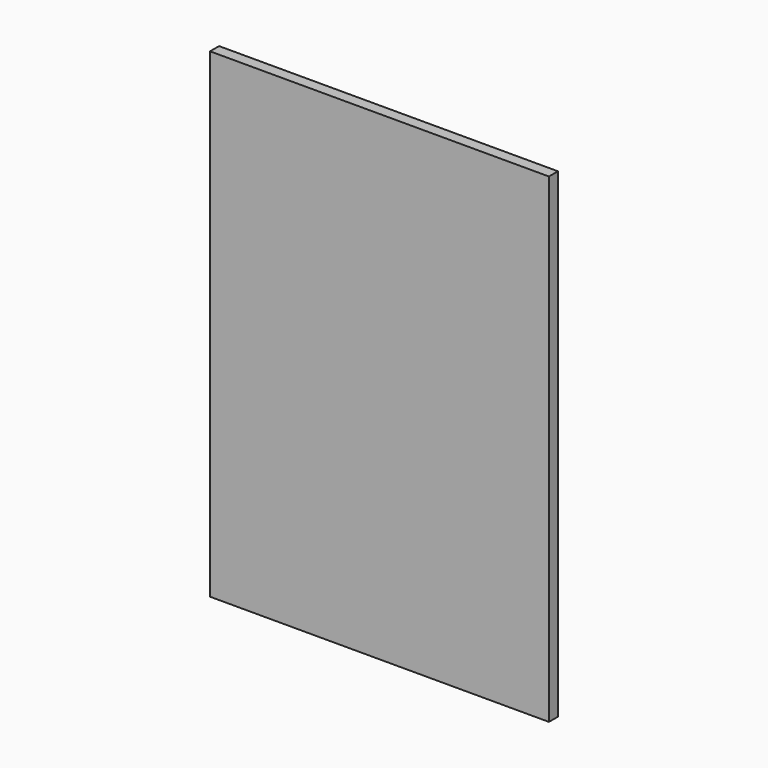
from build123d import *

# Parameters (mm, degrees)
F0_W     = 600
F0_H     = 850
F0_W_2   = 570
F0_H_2   = 820
F1_DEPTH = 20
F2_W     = 600
F2_H     = 850
F3_DEPTH = 5


with BuildPart() as f1:
    # F0 (on Front) → F1 (new body)
    with BuildSketch(Plane.XZ):
        with Locations((260.588973, 360.083479)):
            Rectangle(F0_W, F0_H)
        with Locations((260.588973, 360.083479)):
            Rectangle(F0_W_2, F0_H_2, mode=Mode.SUBTRACT)
    extrude(amount=F1_DEPTH)

    # F2 (on face) → F3 (join)
    with BuildSketch(Plane.XZ.offset(20)):
        with Locations((260.588973, 360.083479)):
            Rectangle(F2_W, F2_H)
    extrude(amount=-F3_DEPTH)


solid = f1.part
